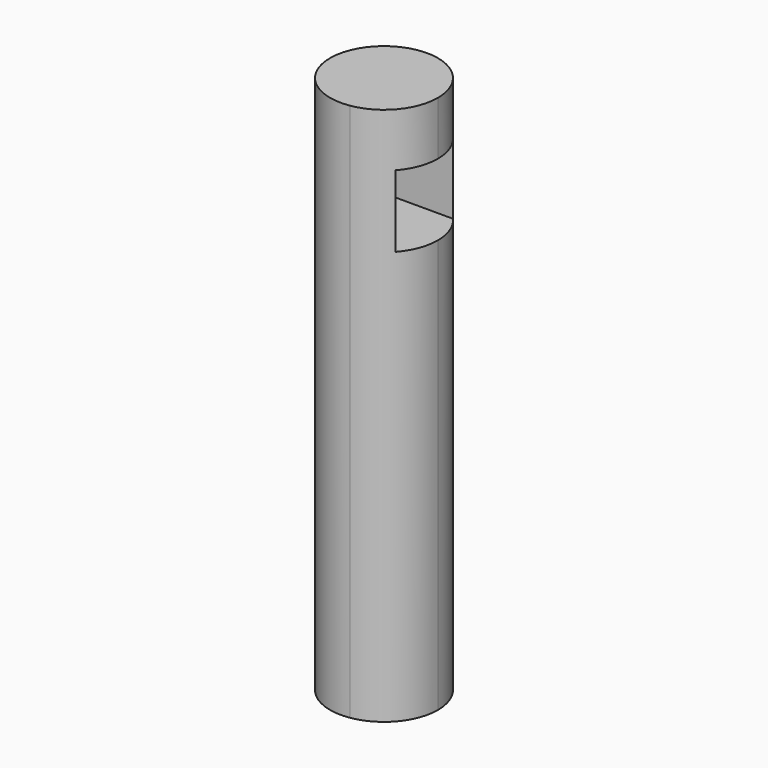
from build123d import *

# Parameters (mm, degrees)
F1_DEPTH      = 150
F2_W          = 10
F2_H          = 20
F3_DEPTH      = 15.001
F3_DEPTH_BACK = 15.001


with BuildPart() as f1:
    # F0 (on Top) → F1 (new body)
    with BuildSketch(Plane.XY):
        with BuildLine():
            ThreePointArc((2.3588839403, -14.8133610824), (11.4101546682, -9.7369589939), (15, 0))
            ThreePointArc((15, 0), (-11.4101546682, 9.7369589939), (2.3588839403, -14.8133610824))
        make_face()
    extrude(amount=F1_DEPTH)

    # F2 (on Right) → F3 (cut, two sides)
    with BuildSketch(Plane.YZ) as f3_sk:
        with Locations((-5, 125.0764748454)):
            Rectangle(F2_W, F2_H)
        with Locations((5, 125.0764748454)):
            Rectangle(F2_W, F2_H)
    extrude(amount=-F3_DEPTH, mode=Mode.SUBTRACT)
    extrude(f3_sk.sketch, amount=F3_DEPTH_BACK, mode=Mode.SUBTRACT)


solid = f1.part
